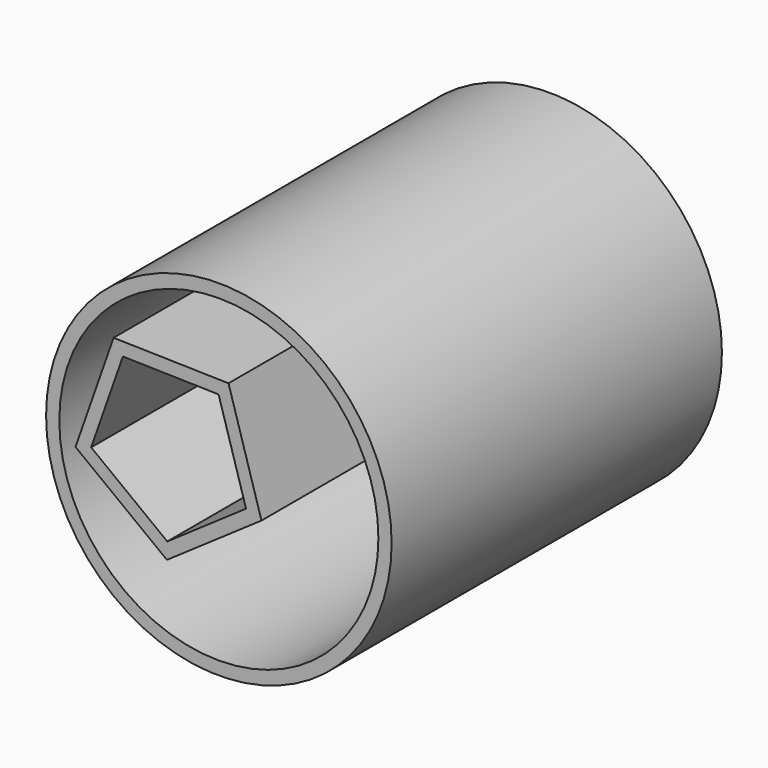
from build123d import *

# Parameters (mm, degrees)
F0_R     = 33.1615614797
F1_DEPTH = 79.248
F3_DEPTH = 111.252
F4_T     = -2.54


with BuildPart() as f1:
    # F0 (on Front) → F1 (new body)
    with BuildSketch(Plane.XZ):
        Circle(F0_R)
    extrude(amount=F1_DEPTH)

    # F2 (on face) → F3 (cut)
    with BuildSketch(Plane.XZ.offset(79.248)):
        Polygon((-9.8989819324, -13.7179617404), (5.2176722472, -3.2694421143), (-0.0481573892, 14.3361204783), (-18.4192732631, 14.7684369255), (-24.507417648, -2.5699394088), align=None)
    extrude(amount=-F3_DEPTH, mode=Mode.SUBTRACT)

    # F4
    f4_openings = [f1.faces().sort_by_distance(p)[0] for p in [
        (-32.223611, -79.248, 0),
    ]]
    offset(amount=F4_T, openings=f4_openings, kind=Kind.INTERSECTION)


solid = f1.part
